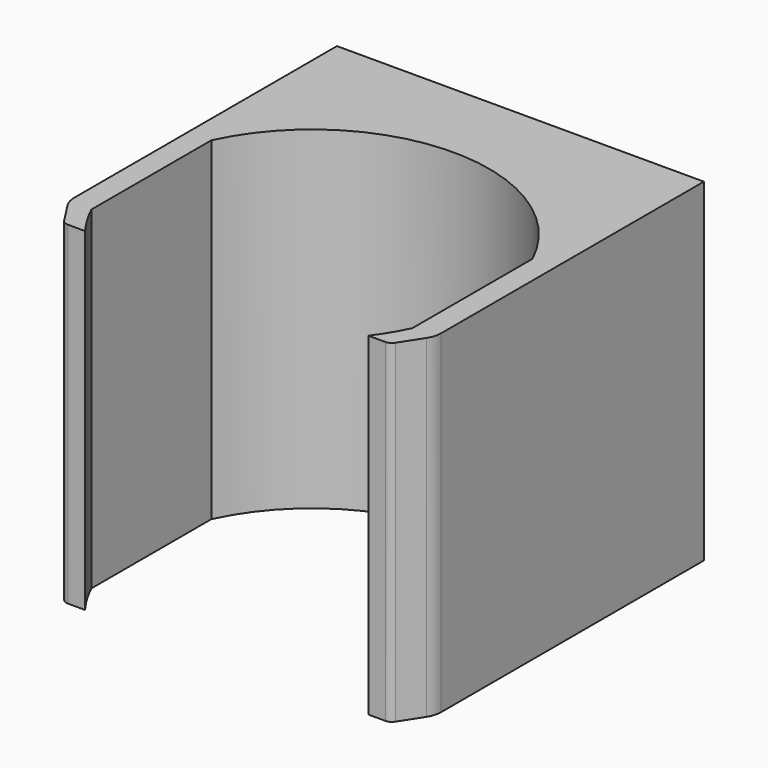
from build123d import *

# Parameters (mm, degrees)
F1_DEPTH = 20
F2_R     = 0.5


with BuildPart() as f1:
    # F0 (on Top) → F1 (new body)
    with BuildSketch(Plane.XY):
        with BuildLine():
            ThreePointArc((9.625, -4.5), (9.107562, -5.472014), (8.492301, -6.385253))
            Line((8.492301, -6.385253), (9.779271, -6.385253))
            Line((9.779271, -6.385253), (10.759093, -4.872048))
            ThreePointArc((10.759093, -4.872048), (10.938513, -4.481831), (11, -4.056767))
            Line((11, -4.056767), (11, 15.625))
            Line((11, 15.625), (-11, 15.625))
            Line((-11, 15.625), (-11, -4.056767))
            ThreePointArc((-11, -4.056767), (-10.938513, -4.481831), (-10.759093, -4.872048))
            Line((-10.759093, -4.872048), (-9.779271, -6.385253))
            Line((-9.779271, -6.385253), (-8.492301, -6.385253))
            ThreePointArc((-8.492301, -6.385253), (-9.107562, -5.472014), (-9.625, -4.5))
            ThreePointArc((-9.625, -4.5), (-10.625, 0), (-9.625, 4.5))
            ThreePointArc((-9.625, 4.5), (0, 10.625), (9.625, 4.5))
            ThreePointArc((9.625, 4.5), (10.625, 0), (9.625, -4.5))
        make_face()
        with BuildLine():
            Line((-9.625, -4.5), (-9.625, 4.5))
            ThreePointArc((-9.625, 4.5), (-10.625, 0), (-9.625, -4.5))
        make_face()
        with BuildLine():
            Line((9.625, 4.5), (9.625, -4.5))
            ThreePointArc((9.625, -4.5), (10.625, 0), (9.625, 4.5))
        make_face()
    extrude(amount=F1_DEPTH)

    # F2
    f2_edges = [f1.edges().sort_by_distance(p)[0] for p in [
        (-9.779271, -6.385253, 10),
        (9.779271, -6.385253, 10),
    ]]
    fillet(f2_edges, radius=F2_R)


solid = f1.part
